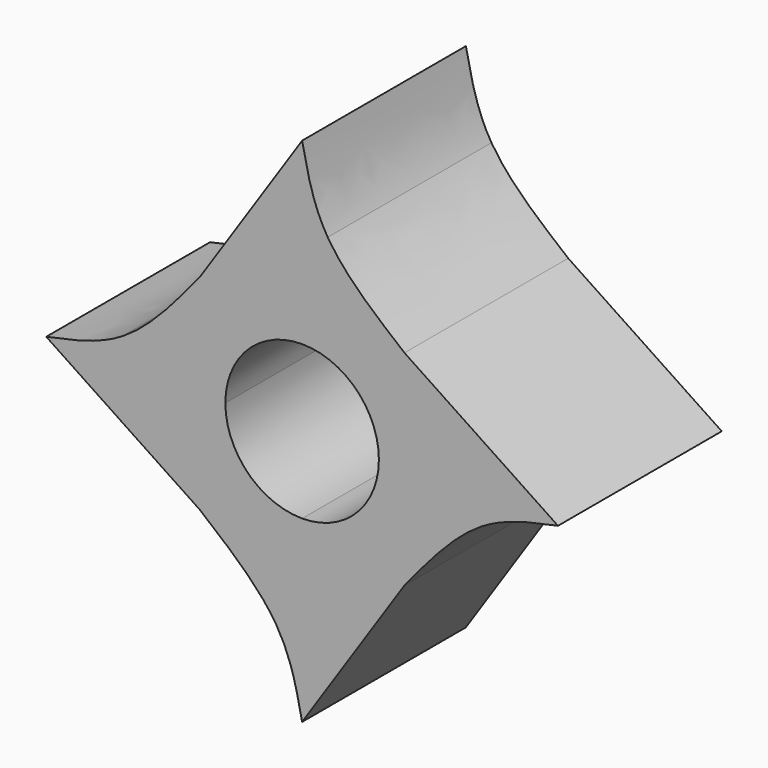
from build123d import *

# Parameters (mm, degrees)
F1_DEPTH = 12.7


with BuildPart() as f1:
    # F0 (on Front) → F1 (new body)
    with BuildSketch(Plane.XZ):
        with BuildLine():
            Line((0, 6.35), (0, 0))
            Line((0, 0), (3.175, 0))
            Line((3.175, 0), (6.35, 0))
            Line((6.35, 0), (6.35, 1.5875))
            ThreePointArc((6.35, 1.5875), (2.9824039546, 2.9824039546), (1.5875, 6.35))
            Line((1.5875, 6.35), (0, 6.35))
        make_face()
        Polygon((-9.525, 6.35), (0, 0), (0, 6.35), (-4.7625, 6.35), align=None)
        with BuildLine():
            Line((3.175, 0), (0, 0))
            add(Edge.make_bspline(
                [(0, 0), (1.8490116871, -1.5200703196), (3.6980233742, -3.0401406392), (4.7625, -4.7625)],
                knots=[0, 0, 0, 0, 0.5366707034, 0.5366707034, 0.5366707034, 0.5366707034], degree=3))
            Line((4.7625, -4.7625), (6.35, -4.7625))
            Line((6.35, -4.7625), (6.35, 0))
            Line((6.35, 0), (3.175, 0))
        make_face()
        with BuildLine():
            Line((-4.7625, 6.35), (0, 6.35))
            Line((0, 6.35), (0, 9.525))
            Line((0, 9.525), (0, 12.7))
            add(Edge.make_bspline(
                [(-4.7625, 7.9375), (-3.0401406392, 9.0019766258), (-1.5200703196, 10.8509883129), (0, 12.7)],
                knots=[0.4633292966, 0.4633292966, 0.4633292966, 0.4633292966, 1, 1, 1, 1], degree=3))
            Line((-4.7625, 7.9375), (-4.7625, 6.35))
        make_face()
        with BuildLine():
            Line((0, 9.525), (0, 6.35))
            Line((0, 6.35), (1.5875, 6.35))
            ThreePointArc((1.5875, 6.35), (2.9824039546, 9.7175960454), (6.35, 11.1125))
            Line((6.35, 11.1125), (6.35, 12.7))
            Line((6.35, 12.7), (3.175, 12.7))
            Line((3.175, 12.7), (0, 12.7))
            Line((0, 12.7), (0, 9.525))
        make_face()
        with BuildLine():
            Line((6.35, -4.7625), (4.7625, -4.7625))
            add(Edge.make_bspline(
                [(4.7625, -4.7625), (5.6815052729, -6.2494817673), (6.0157526364, -7.8872408837), (6.35, -9.525)],
                knots=[0.5366707034, 0.5366707034, 0.5366707034, 0.5366707034, 1, 1, 1, 1], degree=3))
            Line((6.35, -9.525), (6.35, -4.7625))
        make_face()
        with BuildLine():
            add(Edge.make_bspline(
                [(-9.525, 6.35), (-7.8872408837, 6.6842473636), (-6.2494817673, 7.0184947271), (-4.7625, 7.9375)],
                knots=[0, 0, 0, 0, 0.4633292966, 0.4633292966, 0.4633292966, 0.4633292966], degree=3))
            Line((-9.525, 6.35), (-4.7625, 6.35))
            Line((-4.7625, 6.35), (-4.7625, 7.9375))
        make_face()
        with BuildLine():
            Line((6.35, 1.5875), (6.35, 0))
            Line((6.35, 0), (12.7, 0))
            Line((12.7, 0), (12.7, 3.175))
            Line((12.7, 3.175), (12.7, 6.35))
            Line((12.7, 6.35), (11.1125, 6.35))
            ThreePointArc((11.1125, 6.35), (9.7175960454, 2.9824039546), (6.35, 1.5875))
        make_face()
        Polygon((12.7, 0), (6.35, 0), (6.35, -4.7625), (6.35, -9.525), align=None)
        with BuildLine():
            Line((12.7, 3.175), (12.7, 0))
            add(Edge.make_bspline(
                [(17.4625, 4.7625), (15.7401406392, 3.6980233742), (14.2200703196, 1.8490116871), (12.7, 0)],
                knots=[0.4633292966, 0.4633292966, 0.4633292966, 0.4633292966, 1, 1, 1, 1], degree=3))
            Line((17.4625, 4.7625), (17.4625, 6.35))
            Line((17.4625, 6.35), (12.7, 6.35))
            Line((12.7, 6.35), (12.7, 3.175))
        make_face()
        Polygon((6.35, 22.225), (0, 12.7), (3.175, 12.7), (6.35, 12.7), (6.35, 17.4625), align=None)
        with BuildLine():
            Line((6.35, 12.7), (6.35, 11.1125))
            ThreePointArc((6.35, 11.1125), (9.7175960454, 9.7175960454), (11.1125, 6.35))
            Line((11.1125, 6.35), (12.7, 6.35))
            Line((12.7, 6.35), (12.7, 12.7))
            Line((12.7, 12.7), (9.525, 12.7))
            Line((9.525, 12.7), (6.35, 12.7))
        make_face()
        with BuildLine():
            Line((17.4625, 6.35), (17.4625, 4.7625))
            add(Edge.make_bspline(
                [(22.225, 6.35), (20.5872408837, 6.0157526364), (18.9494817673, 5.6815052729), (17.4625, 4.7625)],
                knots=[0, 0, 0, 0, 0.4633292966, 0.4633292966, 0.4633292966, 0.4633292966], degree=3))
            Line((22.225, 6.35), (17.4625, 6.35))
        make_face()
        with BuildLine():
            add(Edge.make_bspline(
                [(6.35, 22.225), (6.6842473636, 20.5872408837), (7.0184947271, 18.9494817673), (7.9375, 17.4625)],
                knots=[0, 0, 0, 0, 0.4633292966, 0.4633292966, 0.4633292966, 0.4633292966], degree=3))
            Line((6.35, 22.225), (6.35, 17.4625))
            Line((6.35, 17.4625), (7.9375, 17.4625))
        make_face()
        with BuildLine():
            Line((6.35, 17.4625), (6.35, 12.7))
            Line((6.35, 12.7), (9.525, 12.7))
            Line((9.525, 12.7), (12.7, 12.7))
            add(Edge.make_bspline(
                [(7.9375, 17.4625), (9.0019766258, 15.7401406392), (10.8509883129, 14.2200703196), (12.7, 12.7)],
                knots=[0.4633292966, 0.4633292966, 0.4633292966, 0.4633292966, 1, 1, 1, 1], degree=3))
            Line((7.9375, 17.4625), (6.35, 17.4625))
        make_face()
        Polygon((12.7, 12.7), (12.7, 6.35), (17.4625, 6.35), (22.225, 6.35), align=None)
    extrude(amount=F1_DEPTH)


solid = f1.part
